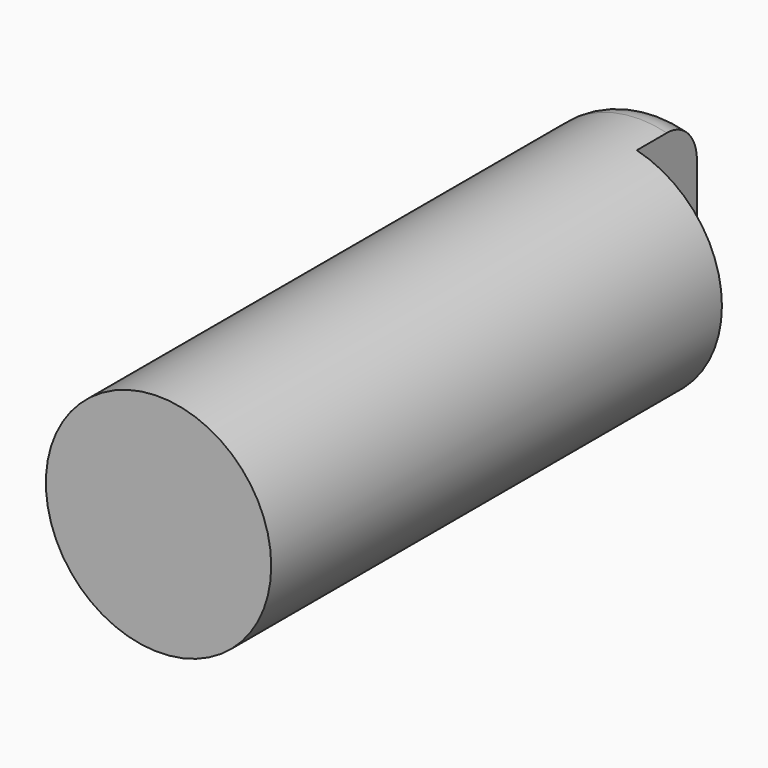
from build123d import *

# Parameters (mm, degrees)
F0_R     = 7.62
F1_DEPTH = 43.18
F3_DEPTH = 5.08
F4_R     = 2.54


with BuildPart() as f1:
    # F0 (on Front) → F1 (new body)
    with BuildSketch(Plane.XZ):
        Circle(F0_R)
    extrude(amount=-F1_DEPTH)

    # F2 (on face) → F3 (cut)
    with BuildSketch(Plane(origin=(0, 43.18, 0), x_dir=(-1, 0, 0), z_dir=(0, 1, 0))):
        with BuildLine():
            Line((-1.863431, -7.388642), (-1.863431, 7.388642))
            ThreePointArc((-1.863431, 7.388642), (-7.62, 0), (-1.863431, -7.388642))
        make_face()
    extrude(amount=-F3_DEPTH, mode=Mode.SUBTRACT)

    # F4
    f4_edges = [f1.edges().sort_by_distance(p)[0] for p in [
        (-7.62, 43.18, 0),
    ]]
    fillet(f4_edges, radius=F4_R)


solid = f1.part
